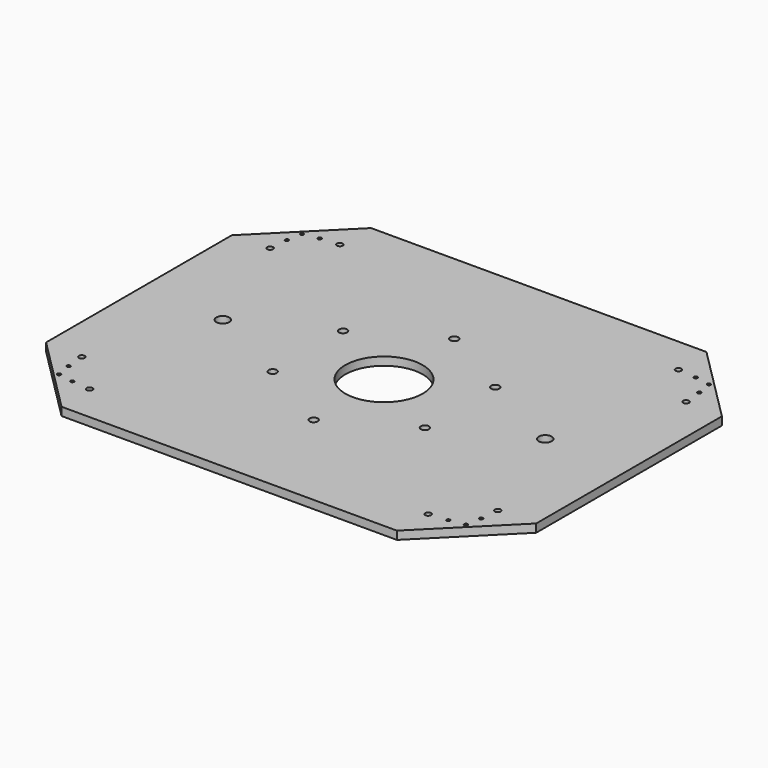
from build123d import *

# Parameters (mm, degrees)
F0_R     = 30
F1_DEPTH = 6.35
F3_D     = 10
F6_D     = 6.35
F7_D     = 4.5
F8_D     = 2.7051
F9_D     = 2.7051


with BuildPart() as f1:
    # F0 (on Top) → F1 (new body)
    with BuildSketch(Plane.XY):
        Polygon((-190, 60), (-130, 0), (130, 0), (190, 60), (190, 240), (130, 300), (-130, 300), (-190, 240), align=None)
        with Locations((0, 150)):
            Circle(F0_R, mode=Mode.SUBTRACT)
    extrude(amount=F1_DEPTH)

    # F3 (through all)
    with Locations(Plane.XY.offset(6.35)):
        with Locations((-125, 150), (125, 150)):
            Hole(F3_D / 2)

    # F6 (through all)
    with Locations(Plane.XY.offset(6.35)):
        with Locations((0, 218.14583), (59.016019942, 184.072915), (-59.016019942, 184.072915), (-59.016019942, 115.927085), (0, 81.85417), (59.016019942, 115.927085)):
            Hole(F6_D / 2)

    # F7 (through all)
    with Locations(Plane.XY.offset(6.35)):
        with Locations((-161.2489651369, 241.2489651369), (-131.2489651369, 271.2489651369), (-161.2489651369, 58.7510348631), (-131.2489651369, 28.7510348631), (131.2489651369, 28.7510348631), (161.2489651369, 58.7510348631), (161.2489651369, 241.2489651369), (131.2489651369, 271.2489651369)):
            Hole(F7_D / 2)

    # F8 (through all)
    with Locations(Plane.XY.offset(6.35)):
        with Locations((157.7549359697, 267.7549359697), (157.7549359697, 32.2450640303), (-157.7549359697, 32.2450640303), (-157.7549359697, 267.7549359697)):
            Hole(F8_D / 2)

    # F9 (through all)
    with Locations(Plane.XY.offset(6.35)):
        with Locations((-159.8994949366, 255.7573593129), (-145.7573593129, 269.8994949366), (-159.8994949366, 44.2426406871), (-145.7573593129, 30.1005050634), (145.7573593129, 30.1005050634), (159.8994949366, 44.2426406871), (145.7573593129, 269.8994949366), (159.8994949366, 255.7573593129)):
            Hole(F9_D / 2)


solid = f1.part
